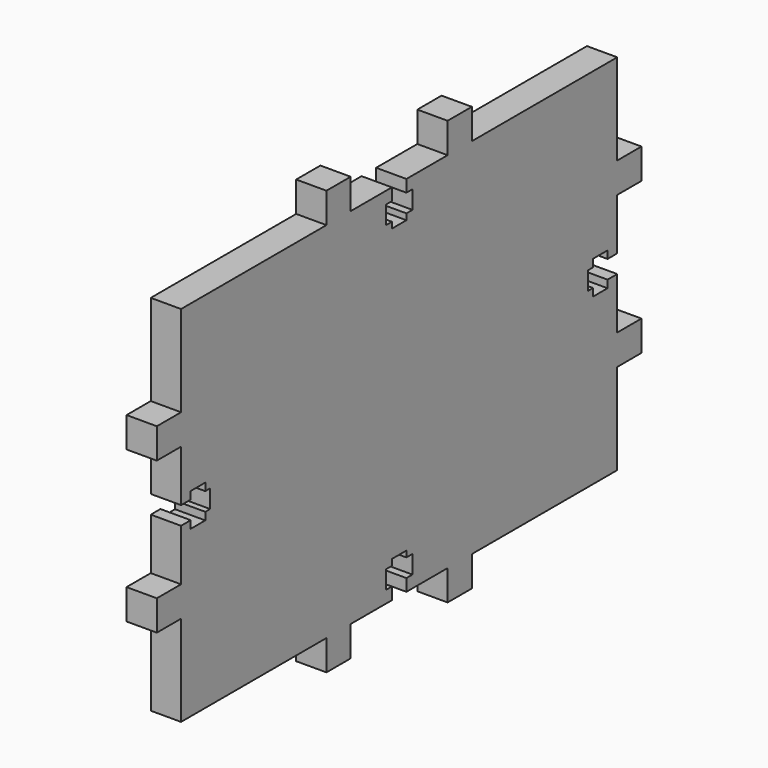
from build123d import *

# Parameters (mm, degrees)
F2_DEPTH = 5


with BuildPart() as f2:
    # F1 (on Right) → F2 (new body)
    with BuildSketch(Plane.YZ):
        Polygon((0, 15), (0, 0), (30, 0), (30, -5), (35, -5), (35, 0), (43.5, 0), (43.5, 2), (42.25, 2), (42.25, 5), (43.5, 5), (43.5, 6), (46.5, 6), (46.5, 5), (47.75, 5), (47.75, 2), (46.5, 2), (46.5, 0), (55, 0), (55, -5), (60, -5), (60, 0), (90, 0), (90, 15), (95, 15), (95, 20), (90, 20), (90, 28.5), (88, 28.5), (88, 27.25), (85, 27.25), (85, 28.5), (84, 28.5), (84, 31.5), (85, 31.5), (85, 32.75), (88, 32.75), (88, 31.5), (90, 31.5), (90, 40), (95, 40), (95, 45), (90, 45), (90, 60), (60, 60), (60, 65), (55, 65), (55, 60), (46.5, 60), (46.5, 58), (47.75, 58), (47.75, 55), (46.5, 55), (46.5, 54), (43.5, 54), (43.5, 55), (42.25, 55), (42.25, 58), (43.5, 58), (43.5, 60), (35, 60), (35, 65), (30, 65), (30, 60), (0, 60), (0, 45), (-5, 45), (-5, 40), (0, 40), (0, 31.5), (2, 31.5), (2, 32.75), (5, 32.75), (5, 31.5), (6, 31.5), (6, 28.5), (5, 28.5), (5, 27.25), (2, 27.25), (2, 28.5), (0, 28.5), (0, 20), (-5, 20), (-5, 15), align=None)
    extrude(amount=F2_DEPTH)


solid = f2.part
